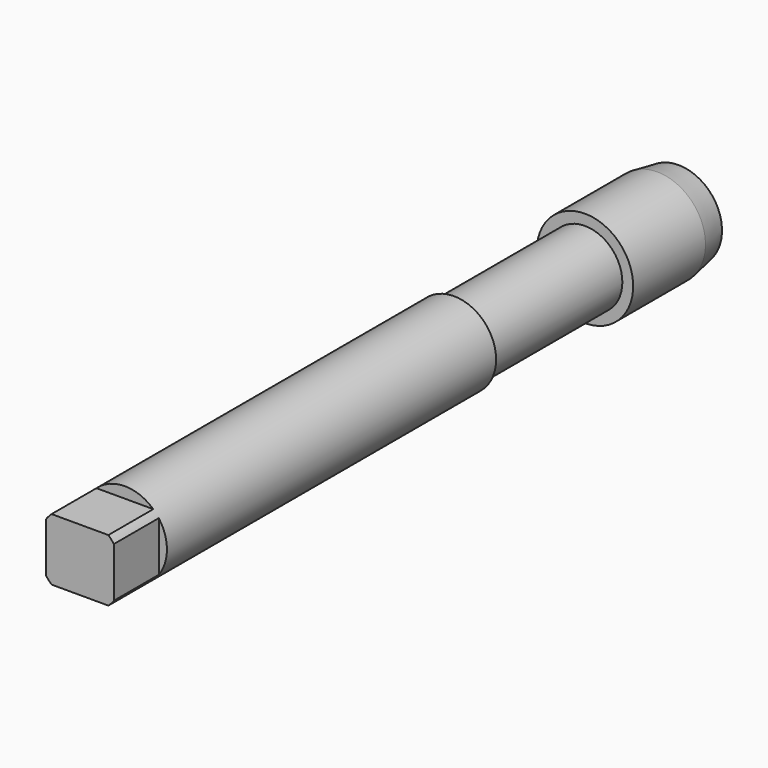
from build123d import *

# Parameters (mm, degrees)
F0_R     = 9
F1_DEPTH = 160
F2_W     = 23.4179981053
F2_H     = 22.6416159421
F2_W_2   = 14.5
F2_H_2   = 13.2822632294
F3_DEPTH = 12
F4_R     = 10.315
F5_DEPTH = 25
F6_SIZE2 = 5.6712818196
F6_SIZE  = 1
F7_R     = 14.7612930143
F7_R_2   = 8
F8_DEPTH = 35


with BuildPart() as f1:
    # F0 (on Front) → F1 (new body)
    with BuildSketch(Plane.XZ):
        Circle(F0_R)
    extrude(amount=F1_DEPTH)

    # F2 (on face) → F3 (cut)
    with BuildSketch(Plane.XZ.offset(160)):
        Rectangle(F2_W, F2_H)
        Rectangle(F2_W_2, F2_H_2, mode=Mode.SUBTRACT)
    extrude(amount=-F3_DEPTH, mode=Mode.SUBTRACT)

    # F4 (on face) → F5 (join)
    with BuildSketch(Plane(origin=(0, 0, 0), x_dir=(-1, 0, 0), z_dir=(0, 1, 0))):
        Circle(F4_R)
    extrude(amount=-F5_DEPTH)

    # F6
    f6_edges = [f1.edges().sort_by_distance(p)[0] for p in [
        (10.315, 0, 0),
    ]]
    f6_side = f1.faces().sort_by_distance((0, 0, 0))[0]
    chamfer(f6_edges, length=F6_SIZE, length2=F6_SIZE2, reference=f6_side)

    # F7 (on face) → F8 (cut)
    with BuildSketch(Plane.XZ.offset(25)):
        Circle(F7_R)
        Circle(F7_R_2, mode=Mode.SUBTRACT)
    extrude(amount=F8_DEPTH, mode=Mode.SUBTRACT)


solid = f1.part
